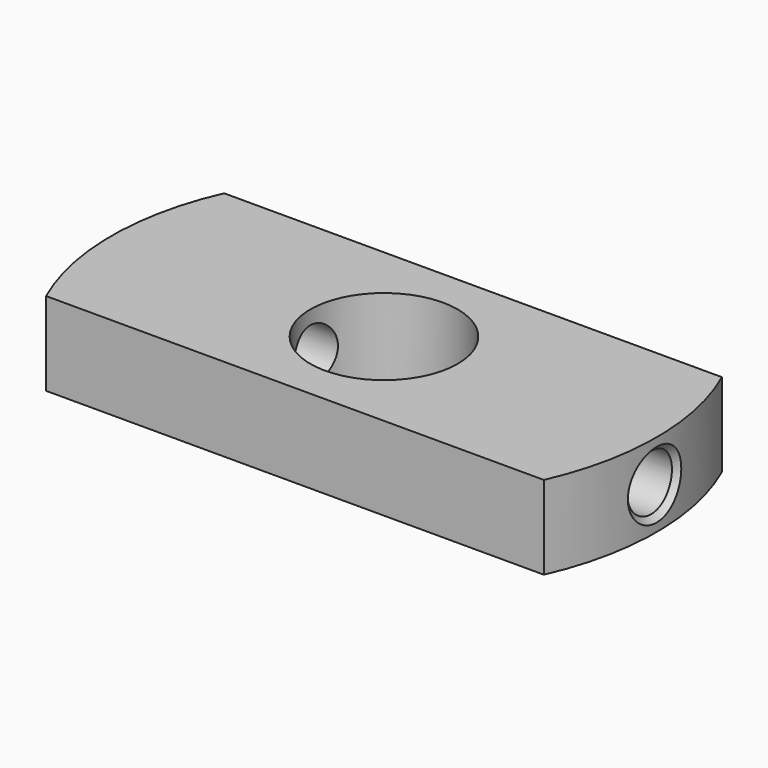
from build123d import *

# Parameters (mm, degrees)
SKETCH_R          = 13.25
PAD_DEPTH         = 15
SKETCH001_R       = 5
POCKET_DEPTH      = 35.001
POCKET_DEPTH_BACK = -63.001
CHAMFER_SIZE      = 1
CHAMFER001_SIZE   = 1
CHAMFER002_SIZE   = 1


with BuildPart() as part:
    # Sketch → Pad (new body)
    with BuildSketch(Plane.XY):
        with BuildLine():
            ThreePointArc((-44.732538, 20), (-49, 0), (-44.732538, -20))
            Line((44.732538, -20), (-44.732538, -20))
            ThreePointArc((44.732538, -20), (49, 0), (44.732538, 20))
            Line((-44.732538, 20), (44.732538, 20))
        make_face()
        Circle(SKETCH_R, mode=Mode.SUBTRACT)
    extrude(amount=PAD_DEPTH)

    # Sketch001 → Pocket (cut, two sides)
    with BuildSketch(Plane.YZ.offset(-14)) as pocket_sk:
        with Locations((0, 7.5)):
            Circle(SKETCH001_R)
    extrude(amount=-POCKET_DEPTH, mode=Mode.SUBTRACT)
    extrude(pocket_sk.sketch, amount=-POCKET_DEPTH_BACK, mode=Mode.SUBTRACT)

    # Chamfer
    chamfer_edges = [part.edges().sort_by_distance(p)[0] for p in [
        (-13.25, 0, 0),
    ]]
    chamfer(chamfer_edges, length=CHAMFER_SIZE)

    # Chamfer001
    chamfer001_edges = [part.edges().sort_by_distance(p)[0] for p in [
        (-48.74423, -5, 7.5),
    ]]
    chamfer(chamfer001_edges, length=CHAMFER001_SIZE)

    # Chamfer002
    chamfer002_edges = [part.edges().sort_by_distance(p)[0] for p in [
        (48.74423, -5, 7.5),
    ]]
    chamfer(chamfer002_edges, length=CHAMFER002_SIZE)


solid = part.part
